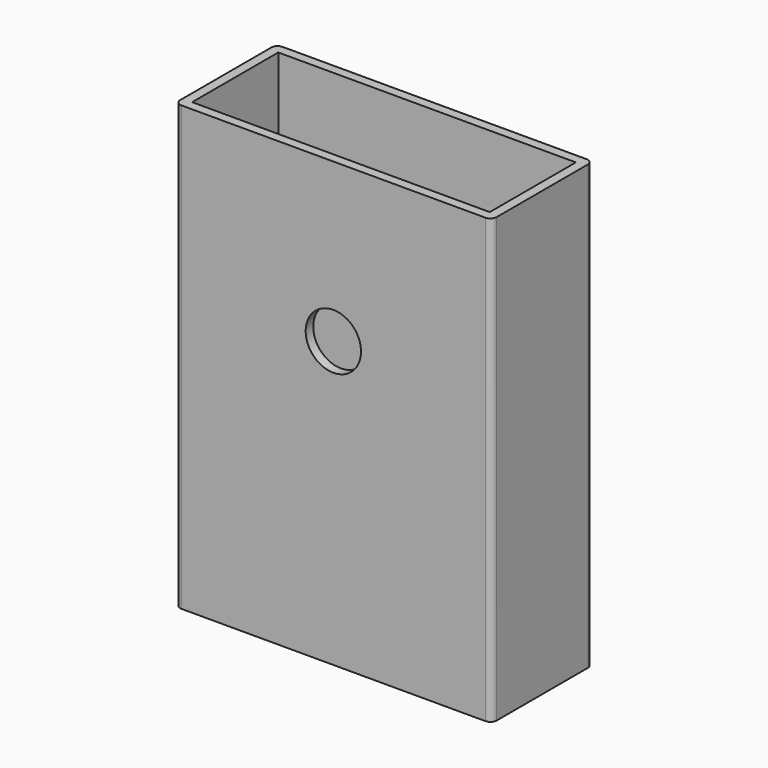
from build123d import *

# Parameters (mm, degrees)
F3_W     = 94
F3_H     = 34
F4_DEPTH = 140
F6_D     = 17.5


with BuildPart() as f4:
    # F3 (on Top) → F4 (new body)
    with BuildSketch(Plane.XY):
        with BuildLine():
            ThreePointArc((-19.2521204937, -49.7380952381), (-18.6663340561, -51.1523088005), (-17.2521204937, -51.7380952381))
            Line((-17.2521204937, -51.7380952381), (78.7478795063, -51.7380952381))
            ThreePointArc((78.7478795063, -51.7380952381), (80.1620930687, -51.1523088005), (80.7478795063, -49.7380952381))
            Line((80.7478795063, -49.7380952381), (80.7478795063, -13.7380952381))
            ThreePointArc((80.7478795063, -13.7380952381), (80.1620930687, -12.3238816757), (78.7478795063, -11.7380952381))
            Line((78.7478795063, -11.7380952381), (-17.2521204937, -11.7380952381))
            ThreePointArc((-17.2521204937, -11.7380952381), (-18.6663340561, -12.3238816757), (-19.2521204937, -13.7380952381))
            Line((-19.2521204937, -13.7380952381), (-19.2521204937, -49.7380952381))
        make_face()
        with Locations((30.7478795063, -31.7380952381)):
            Rectangle(F3_W, F3_H, mode=Mode.SUBTRACT)
    extrude(amount=F4_DEPTH)

    # F6 (through all)
    with Locations(Plane.XZ.offset(51.7380952381)):
        with Locations((30.7478795063, 90)):
            Hole(F6_D / 2)


solid = f4.part
